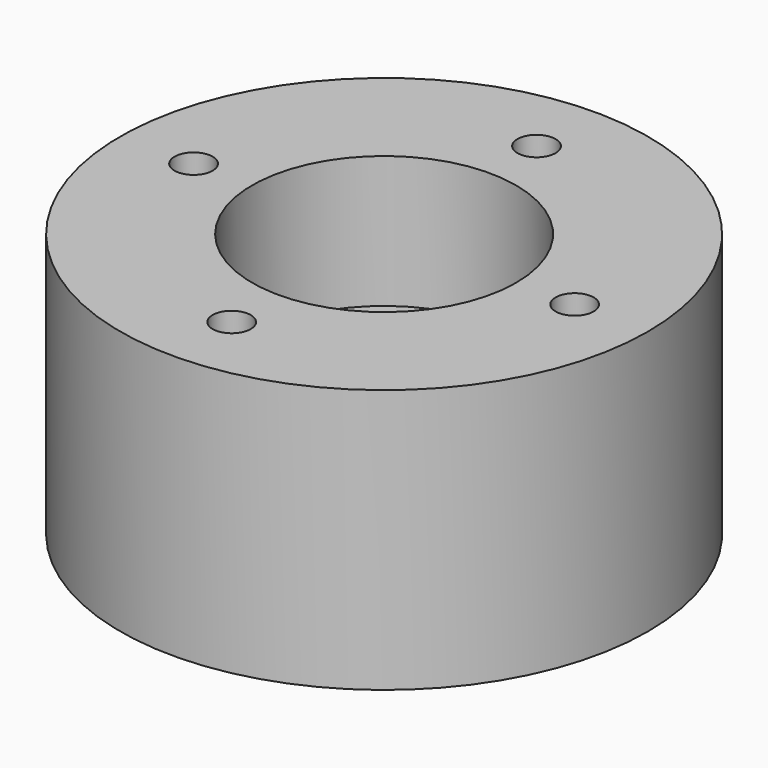
from build123d import *

# Parameters (mm, degrees)
F0_R           = 30.48
F0_R_2         = 11.049
F1_DEPTH       = 30.48
F2_R           = 15.24
F3_DEPTH       = 15.24
F4_R           = 12.6365
F4_R_2         = 11.049
F5_DEPTH       = 7.112
F6_SIZE2       = 0.254
F6_SIZE        = 0.0680590949
F8_D           = 4.4
F8_CBORE_D     = 8.25
F8_CBORE_DEPTH = 10
F10_D          = 4.0386
F10_DEPTH      = 15.24
F10_TIP        = 1.213317848
F11_R          = 17.4244
F11_R_2        = 14.224
F12_DEPTH      = 1.2954
F13_R          = 0.4064


with BuildPart() as f1:
    # F0 (on Top) → F1 (new body)
    with BuildSketch(Plane.XY):
        Circle(F0_R)
        Circle(F0_R_2, mode=Mode.SUBTRACT)
    extrude(amount=F1_DEPTH)

    # F2 (on face) → F3 (cut)
    with BuildSketch(Plane.XY.offset(30.48)):
        Circle(F2_R)
    extrude(amount=-F3_DEPTH, mode=Mode.SUBTRACT)

    # F4 (on face) → F5 (cut)
    with BuildSketch(Plane(origin=(0, 0, 0), x_dir=(1, 0, 0), z_dir=(0, 0, -1))):
        Circle(F4_R)
        Circle(F4_R_2, mode=Mode.SUBTRACT)
    extrude(amount=-F5_DEPTH, mode=Mode.SUBTRACT)

    # F6
    f6_edges = [f1.edges().sort_by_distance(p)[0] for p in [
        (-11.049, 0, 15.24),
        (-12.6365, 0, 0),
        (-11.049, 0, 7.112),
    ]]
    chamfer(f6_edges, length=F6_SIZE, length2=F6_SIZE2)

    # F8 (through all)
    with Locations(Plane(origin=(0, 0, 0), x_dir=(1, 0, 0), z_dir=(0, 0, -1))):
        with Locations((0, -22), (-22, 0), (0, 22), (22, 0)):
            CounterBoreHole(F8_D / 2, F8_CBORE_D / 2, F8_CBORE_DEPTH)

    # F10
    with Locations(Plane(origin=(0, 0, 0), x_dir=(1, 0, 0), z_dir=(0, 0, -1))):
        with Locations((-19.2474145991, 11.1125), (11.1125, 19.2474145991), (19.2474145991, -11.1125), (-11.1125, -19.2474145991)):
            Hole(F10_D / 2, depth=F10_DEPTH)
            with Locations((0, 0, -(F10_DEPTH + F10_TIP / 2))):  # 118° drill point
                Cone(0, F10_D / 2, F10_TIP, mode=Mode.SUBTRACT)

    # F11 (on face) → F12 (cut)
    with BuildSketch(Plane(origin=(0, 0, 0), x_dir=(1, 0, 0), z_dir=(0, 0, -1))):
        Circle(F11_R)
        Circle(F11_R_2, mode=Mode.SUBTRACT)
    extrude(amount=-F12_DEPTH, mode=Mode.SUBTRACT)

    # F13
    f13_edges = [f1.edges().sort_by_distance(p)[0] for p in [
        (-14.224, 0, 1.2954),
        (-17.4244, 0, 1.2954),
    ]]
    fillet(f13_edges, radius=F13_R)


solid = f1.part
